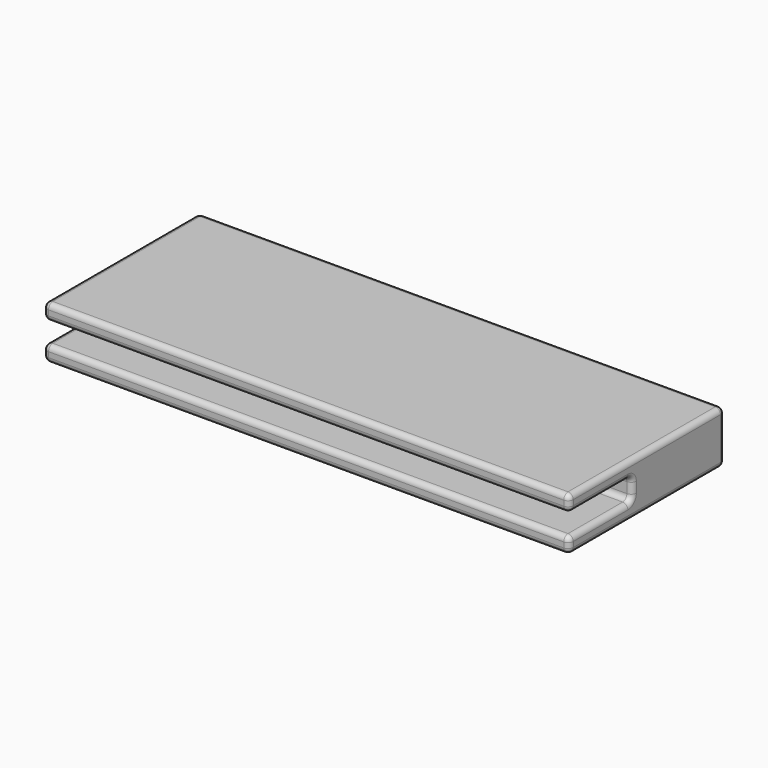
from build123d import *

# Parameters (mm, degrees)
BOX001_W     = 100
BOX001_H     = 15
BOX001_DEPTH = 4
BOX_W        = 100
BOX_H        = 37
BOX_DEPTH    = 10
FILLET_R     = 1


with BuildPart() as cutter:
    # Box001 → Box001 (new body)
    with BuildSketch(Plane.XY.offset(3)):
        with Locations((50, 7.5)):
            Rectangle(BOX001_W, BOX001_H)
    extrude(amount=BOX001_DEPTH)


with BuildPart() as fillet_body:
    # Box → Box (new body)
    with BuildSketch(Plane.XY):
        with Locations((50, 18.5)):
            Rectangle(BOX_W, BOX_H)
    extrude(amount=BOX_DEPTH)

    # Cut: cut Cutter
    add(cutter.part, mode=Mode.SUBTRACT)

    # Fillet
    fillet_edges = [fillet_body.edges().sort_by_distance(p)[0] for p in [
        (0, 0, 1.5),
        (0, 7.5, 3),
        (0, 15, 5),
        (0, 7.5, 7),
        (0, 0, 8.5),
        (0, 18.5, 10),
        (0, 37, 5),
        (0, 18.5, 0),
        (100, 0, 1.5),
        (50, 0, 3),
        (50, 0, 0),
        (50, 15, 3),
        (100, 7.5, 3),
        (100, 15, 5),
        (50, 15, 7),
        (50, 0, 7),
        (100, 7.5, 7),
        (100, 0, 8.5),
        (50, 0, 10),
        (50, 37, 10),
        (100, 18.5, 10),
        (50, 37, 0),
        (100, 37, 5),
        (100, 18.5, 0),
    ]]
    fillet(fillet_edges, radius=FILLET_R)


solid = fillet_body.part
